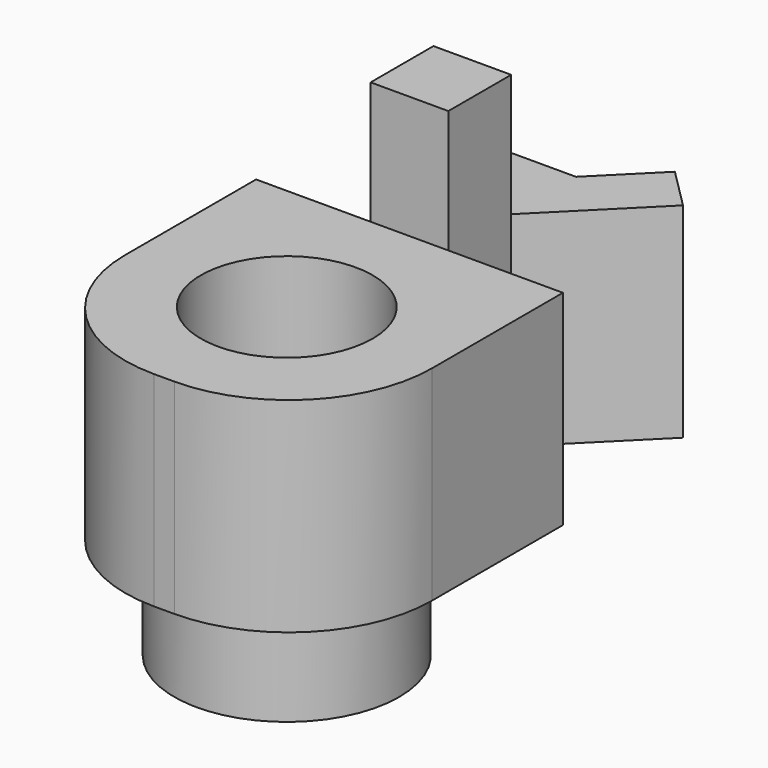
from build123d import *

# Parameters (mm, degrees)
F0_W     = 3.8
F0_H     = 3.840202
F0_H_2   = 3.959798
F1_DEPTH = 10
F2_W     = 3.8
F2_H     = 3.840202
F3_DEPTH = 6
F4_R     = 5.5
F5_DEPTH = 5
F6_R     = 1
F7_DEPTH = 25
F8_R     = 4.2
F9_DEPTH = 14
F10_R    = 7


with BuildPart() as f1:
    # F0 (on Top) → F1 (new body)
    with BuildSketch(Plane.XY):
        Polygon((0, 15), (0, 0), (15, 0), (15, 15), (9.4, 15), (5.6, 15), align=None)
        with Locations((7.5, 16.920101)):
            Rectangle(F0_W, F0_H)
        with Locations((7.5, 20.820101)):
            Rectangle(F0_W, F0_H_2)
        Polygon((9.4, 22.8), (9.4, 18.840202), (14.066905, 23.507107), (12.087006, 25.487006), align=None)
        Polygon((0.933095, 23.507107), (5.6, 18.840202), (5.6, 22.8), (2.912994, 25.487006), align=None)
    extrude(amount=F1_DEPTH)

    # F2 (on face) → F3 (join)
    with BuildSketch(Plane.XY.offset(10)):
        with Locations((7.5, 16.920101)):
            Rectangle(F2_W, F2_H)
    extrude(amount=F3_DEPTH)

    # F4 (on face) → F5 (join)
    with BuildSketch(Plane(origin=(0, 0, 0), x_dir=(1, 0, 0), z_dir=(0, 0, -1))):
        with Locations((7.5, -7.5)):
            Circle(F4_R)
    extrude(amount=F5_DEPTH)

    # F6 (on face) → F7 (cut)
    with BuildSketch(Plane(origin=(0, 0, -5), x_dir=(1, 0, 0), z_dir=(0, 0, -1))):
        with Locations((7.5, -7.5)):
            Circle(F6_R)
    extrude(amount=-F7_DEPTH, mode=Mode.SUBTRACT)

    # F8 (on face) → F9 (cut)
    with BuildSketch(Plane.XY.offset(10)):
        with Locations((7.5, 7.5)):
            Circle(F8_R)
    extrude(amount=-F9_DEPTH, mode=Mode.SUBTRACT)

    # F10
    f10_edges = [f1.edges().sort_by_distance(p)[0] for p in [
        (15, 0, 5),
        (0, 0, 5),
    ]]
    fillet(f10_edges, radius=F10_R)


solid = f1.part
